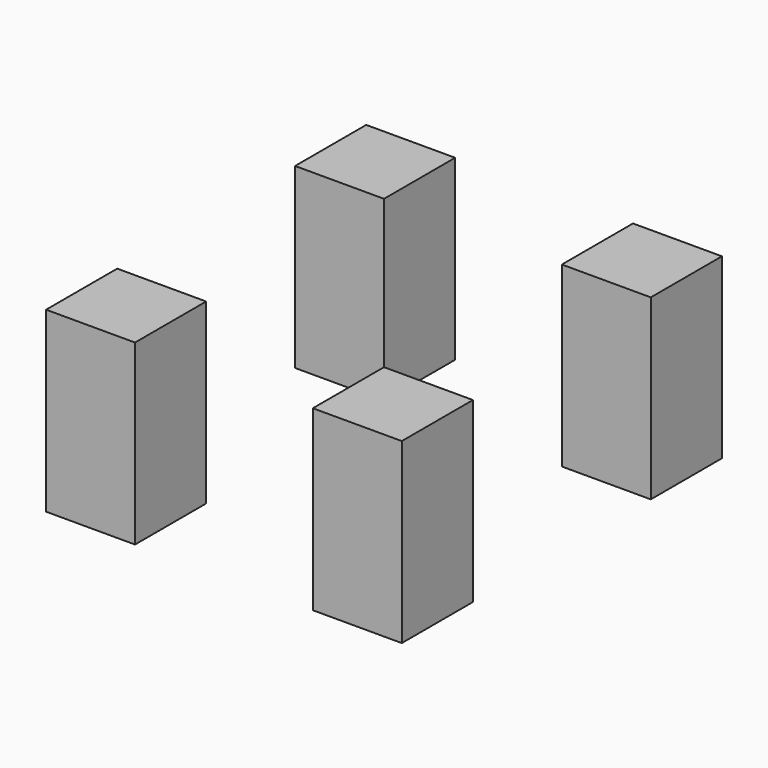
from build123d import *

# Parameters (mm, degrees)
F0_W     = 10
F0_H     = 10
F1_DEPTH = 20


with BuildPart() as f1:
    # F0 (on Top) → F1 (new body)
    with BuildSketch(Plane.XY):
        Rectangle(F0_W, F0_H)
        with Locations((30, 0)):
            Rectangle(F0_W, F0_H)
        with Locations((30, 35)):
            Rectangle(F0_W, F0_H)
        with Locations((0, 35)):
            Rectangle(F0_W, F0_H)
    extrude(amount=F1_DEPTH)


solid = f1.part
